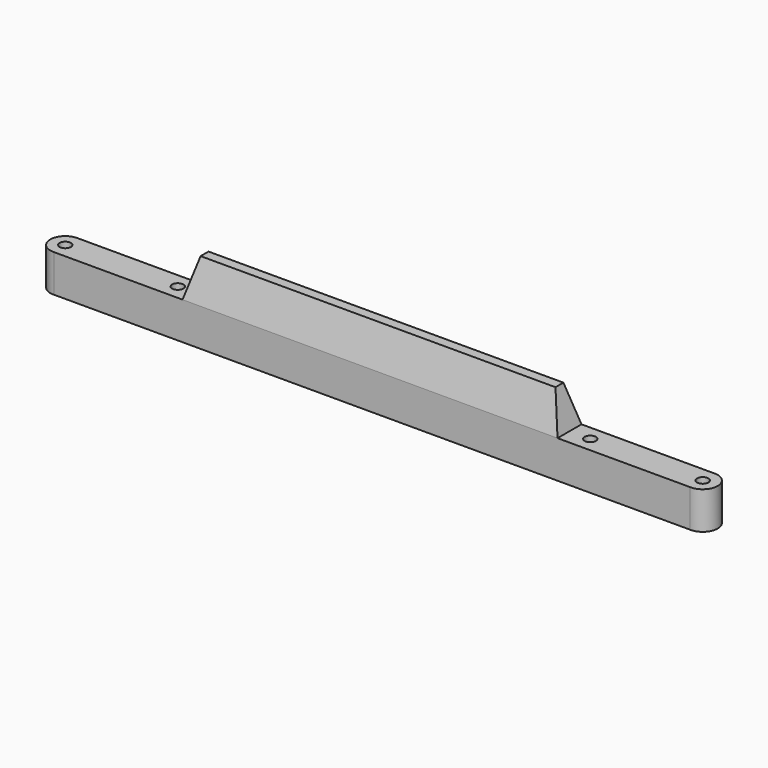
from build123d import *

# Parameters (mm, degrees)
F0_R     = 1.5
F1_DEPTH = 10
F2_W     = 100
F2_H     = 7.9973221187
F3_DEPTH = 10
F3_TAPER = 15


with BuildPart() as f1:
    # F0 (on Top) → F1 (new body)
    with BuildSketch(Plane.XY):
        with BuildLine():
            Line((85.5292061374, 4), (-84.4196008664, 3.9996724949))
            ThreePointArc((-84.4196008664, 3.9996724949), (-88.4705448943, -0.0439320136), (-84.3317616809, -3.9975832944))
            Line((-84.3317616809, -3.9975832944), (85.3901893724, -3.9975832944))
            ThreePointArc((85.3901893724, -3.9975832944), (89.5286096907, -0.0695188849), (85.5292061374, 4))
        make_face()
        with Locations((-84.4707861543, 0)):
            Circle(F0_R, mode=Mode.SUBTRACT)
        with Locations((-54.4707861543, 0)):
            Circle(F0_R, mode=Mode.SUBTRACT)
        with Locations((55.5292138457, 0)):
            Circle(F0_R, mode=Mode.SUBTRACT)
        with Locations((85.5292138457, 0)):
            Circle(F0_R, mode=Mode.SUBTRACT)
    extrude(amount=F1_DEPTH)

    # F2 (on face) → F3 (join)
    with BuildSketch(Plane.XY.offset(10)):
        with Locations((0, 0.0010777649)):
            Rectangle(F2_W, F2_H)
    extrude(amount=F3_DEPTH, taper=F3_TAPER)


solid = f1.part
